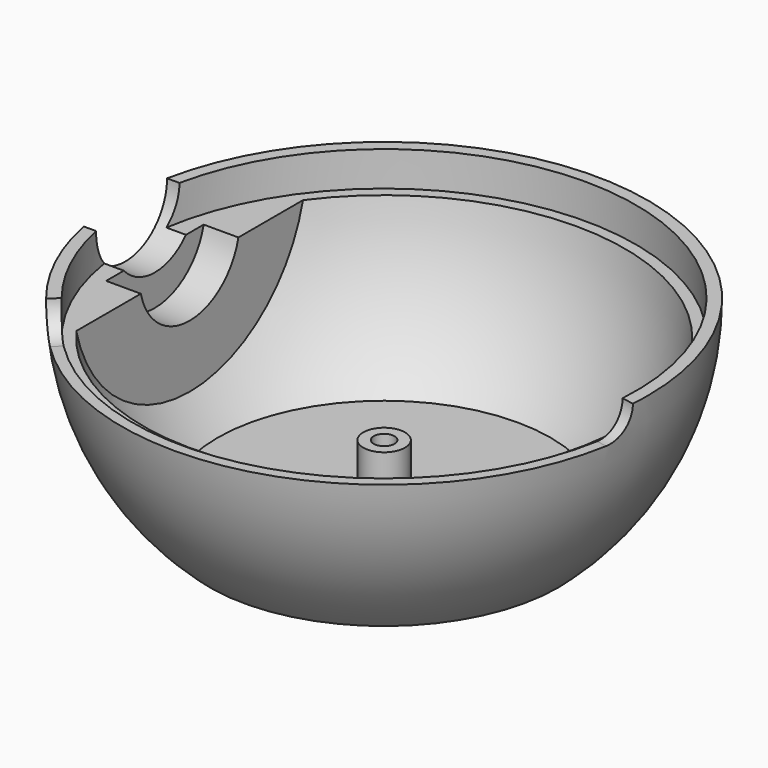
from build123d import *

# Parameters (mm, degrees)
CYLINDER052_R               = 1.5
CYLINDER052_DEPTH           = 15
CYLINDER050_R               = 36.25
CYLINDER050_DEPTH           = 10
BOX043_W                    = 73
BOX043_H                    = 67
BOX043_DEPTH                = 32
CYLINDER023_R               = 9
CYLINDER023_DEPTH           = 10
CYLINDER023_PITCH_ANGLE     = 90
BOX026_W                    = 10
BOX026_H                    = 18
BOX026_DEPTH                = 6
CYLINDER022_R               = 9
CYLINDER022_DEPTH           = 10
CYLINDER022_PITCH_ANGLE     = 90
CYLINDER021_R               = 7.5
CYLINDER021_DEPTH           = 20
CYLINDER021_PITCH_ANGLE     = 90
BOX025_W                    = 10
BOX025_H                    = 47
BOX025_DEPTH                = 24
BOX_W                       = 98
BOX_H                       = 98
BOX_DEPTH                   = 98
CYLINDER017_R               = 4
CYLINDER017_DEPTH           = 52
CYLINDER017_PITCH_ANGLE     = -90
CYLINDER017_PLACEMENT_ANGLE = 170
BOX020_W                    = 120
BOX020_H                    = 64
BOX020_DEPTH                = 15
BOX020_PLACEMENT_ANGLE      = 45
BOX019_W                    = 120
BOX019_H                    = 61
BOX019_DEPTH                = 15
BOX019_PLACEMENT_ANGLE      = -10
CYLINDER015_R               = 52
CYLINDER015_DEPTH           = 8
CYLINDER016_R               = 4
CYLINDER016_DEPTH           = 52
CYLINDER016_PITCH_ANGLE     = -90
CYLINDER016_PLACEMENT_ANGLE = 45
BOX036_W                    = 73
BOX036_H                    = 67
BOX036_DEPTH                = 3
CYLINDER051_R               = 3
CYLINDER051_DEPTH           = 10


with BuildPart() as cilindro042:
    # Cylinder052 → Cylinder052 (new body)
    with BuildSketch(Plane.XY.offset(-31)):
        Circle(CYLINDER052_R)
    extrude(amount=CYLINDER052_DEPTH)


with BuildPart() as cilindro040:
    # Cylinder050 → Cylinder050 (new body)
    with BuildSketch(Plane.XY.offset(-5)):
        Circle(CYLINDER050_R)
    extrude(amount=CYLINDER050_DEPTH)


with BuildPart() as cubo035:
    # Box043 → Box043 (new body)
    with BuildSketch(Plane(origin=(38, -33, -28.5), x_dir=(-1, 0, 0), z_dir=(0, 0, -1))):
        with Locations((36.5, 33.5)):
            Rectangle(BOX043_W, BOX043_H)
    extrude(amount=BOX043_DEPTH)


with BuildPart() as cilindro019:
    # Cylinder023 → Cylinder023 (new body)
    with BuildSketch(Plane.XY):
        Circle(CYLINDER023_R)
    extrude(amount=CYLINDER023_DEPTH)


with BuildPart() as cilindro019_1:
    # Cylinder023 pitch: moved
    add(cilindro019.part.rotate(Axis((0, 0, 0), (0, 1, 0)), CYLINDER023_PITCH_ANGLE))


with BuildPart() as cilindro019_2:
    # Cylinder023 placement: moved
    add(cilindro019_1.part.moved(Location((-33, 0, 3))))


with BuildPart() as cubo020:
    # Box026 → Box026 (new body)
    with BuildSketch(Plane(origin=(-33, -9, -3), x_dir=(1, 0, 0), z_dir=(0, 0, 1))):
        with Locations((5, 9)):
            Rectangle(BOX026_W, BOX026_H)
    extrude(amount=BOX026_DEPTH)


with BuildPart() as obj1:
    # Cylinder022 → Cylinder022 (new body)
    with BuildSketch(Plane.XY):
        Circle(CYLINDER022_R)
    extrude(amount=CYLINDER022_DEPTH)


with BuildPart() as obj1_1:
    # Cylinder022 pitch: moved
    add(obj1.part.rotate(Axis((0, 0, 0), (0, 1, 0)), CYLINDER022_PITCH_ANGLE))


with BuildPart() as obj1_2:
    # Cylinder022 placement: moved
    add(obj1_1.part.moved(Location((-33, 0, -3))))

    # Fusion016: union Cilindro019, Cubo020
    add(cilindro019_2.part)
    add(cubo020.part)


with BuildPart() as obj2:
    # Cylinder021 → Cylinder021 (new body)
    with BuildSketch(Plane.XY):
        Circle(CYLINDER021_R)
    extrude(amount=CYLINDER021_DEPTH)


with BuildPart() as obj2_1:
    # Cylinder021 pitch: moved
    add(obj2.part.rotate(Axis((0, 0, 0), (0, 1, 0)), CYLINDER021_PITCH_ANGLE))


with BuildPart() as obj2_2:
    # Cylinder021 placement: moved
    add(obj2_1.part.moved(Location((-46, 0, 0))))


with BuildPart() as obj3:
    # Sphere005 → Sphere005 (revolve)
    with BuildSketch(Plane.XZ):
        with BuildLine():
            ThreePointArc((0, -35), (35, 0), (0, 35))
            Line((0, 35), (0, -35))
        make_face()
    revolve(axis=Axis((0, 0, 0), (0, 0, 1)))


with BuildPart() as common001:
    # Box025 → Box025 (new body)
    with BuildSketch(Plane(origin=(-38, -22, -24), x_dir=(1, 0, 0), z_dir=(0, 0, 1))):
        with Locations((5, 23.5)):
            Rectangle(BOX025_W, BOX025_H)
    extrude(amount=BOX025_DEPTH)

    # Common001: intersect obj3
    add(obj3.part, mode=Mode.INTERSECT)


with BuildPart() as obj4:
    # Box → Box (new body)
    with BuildSketch(Plane(origin=(-52, -49, 0), x_dir=(1, 0, 0), z_dir=(0, 0, 1))):
        with Locations((49, 49)):
            Rectangle(BOX_W, BOX_H)
    extrude(amount=BOX_DEPTH)


with BuildPart() as cilindro015:
    # Cylinder017 → Cylinder017 (new body)
    with BuildSketch(Plane.XY):
        Circle(CYLINDER017_R)
    extrude(amount=CYLINDER017_DEPTH)


with BuildPart() as cilindro015_1:
    # Cylinder017 pitch: moved
    add(cilindro015.part.rotate(Axis((0, 0, 0), (0, 1, 0)), CYLINDER017_PITCH_ANGLE))


with BuildPart() as cilindro015_2:
    # Cylinder017 placement: moved
    add(cilindro015_1.part.rotate(Axis((0, 0, 0), (0, 0, 1)), CYLINDER017_PLACEMENT_ANGLE))


with BuildPart() as cubo016:
    # Box020 → Box020 (new body)
    with BuildSketch(Plane.XY):
        with Locations((60, 32)):
            Rectangle(BOX020_W, BOX020_H)
    extrude(amount=BOX020_DEPTH)


with BuildPart() as cubo016_1:
    # Box020 placement: moved
    add(cubo016.part.moved(Location((-42.426407, -42.426407, -9))).rotate(Axis((-42.426407, -42.426407, -9), (0, 0, 1)), BOX020_PLACEMENT_ANGLE))


with BuildPart() as cubo015:
    # Box019 → Box019 (new body)
    with BuildSketch(Plane.XY):
        with Locations((60, 30.5)):
            Rectangle(BOX019_W, BOX019_H)
    extrude(amount=BOX019_DEPTH)


with BuildPart() as cubo015_1:
    # Box019 placement: moved
    add(cubo015.part.moved(Location((-59.088465, 10.418891, -8))).rotate(Axis((-59.088465, 10.418891, -8), (0, 0, 1)), BOX019_PLACEMENT_ANGLE))


with BuildPart() as cut029:
    # Cylinder015 → Cylinder015 (new body)
    with BuildSketch(Plane.XY.offset(-4)):
        Circle(CYLINDER015_R)
    extrude(amount=CYLINDER015_DEPTH)

    # Cut028: cut Cubo015
    add(cubo015_1.part, mode=Mode.SUBTRACT)

    # Cut029: cut Cubo016
    add(cubo016_1.part, mode=Mode.SUBTRACT)


with BuildPart() as ranura003:
    # Cylinder016 → Cylinder016 (new body)
    with BuildSketch(Plane.XY):
        Circle(CYLINDER016_R)
    extrude(amount=CYLINDER016_DEPTH)


with BuildPart() as ranura003_1:
    # Cylinder016 pitch: moved
    add(ranura003.part.rotate(Axis((0, 0, 0), (0, 1, 0)), CYLINDER016_PITCH_ANGLE))


with BuildPart() as ranura003_2:
    # Cylinder016 placement: moved
    add(ranura003_1.part.rotate(Axis((0, 0, 0), (0, 0, 1)), CYLINDER016_PLACEMENT_ANGLE))

    # Fusion011: union Cilindro015, Cut029
    add(cilindro015_2.part)
    add(cut029.part)


with BuildPart() as obj5:
    # Sphere001 → Sphere001 (revolve)
    with BuildSketch(Plane.XZ):
        with BuildLine():
            ThreePointArc((0, -35), (35, 0), (0, 35))
            Line((0, 35), (0, -35))
        make_face()
    revolve(axis=Axis((0, 0, 0), (0, 0, 1)))


with BuildPart() as obj6:
    # Sphere → Sphere (revolve)
    with BuildSketch(Plane.XZ):
        with BuildLine():
            ThreePointArc((0, -38), (38, 0), (0, 38))
            Line((0, 38), (0, -38))
        make_face()
    revolve(axis=Axis((0, 0, 0), (0, 0, 1)))

    # Cut: cut obj5
    add(obj5.part, mode=Mode.SUBTRACT)

    # Cut030: cut Ranura003
    add(ranura003_2.part, mode=Mode.SUBTRACT)

    # Cut035: cut obj4
    add(obj4.part, mode=Mode.SUBTRACT)

    # Fusion014: union Common001
    add(common001.part)

    # Cut038: cut obj2
    add(obj2_2.part, mode=Mode.SUBTRACT)

    # Cut040: cut obj1
    add(obj1_2.part, mode=Mode.SUBTRACT)

    # Cut058: cut Cubo035
    add(cubo035.part, mode=Mode.SUBTRACT)


with BuildPart() as cubo029:
    # Box036 → Box036 (new body)
    with BuildSketch(Plane(origin=(38, -33, -25.5), x_dir=(-1, 0, 0), z_dir=(0, 0, -1))):
        with Locations((36.5, 33.5)):
            Rectangle(BOX036_W, BOX036_H)
    extrude(amount=BOX036_DEPTH)


with BuildPart() as obj7:
    # Sphere010 → Sphere010 (revolve)
    with BuildSketch(Plane.XZ):
        with BuildLine():
            ThreePointArc((0, -35), (35, 0), (0, 35))
            Line((0, 35), (0, -35))
        make_face()
    revolve(axis=Axis((0, 0, 0), (0, 0, 1)))

    # Common005: intersect Cubo029
    add(cubo029.part, mode=Mode.INTERSECT)

    # Fusion027: union obj6
    add(obj6.part)

    # Cut069: cut Cilindro040
    add(cilindro040.part, mode=Mode.SUBTRACT)


with BuildPart() as obj8:
    # Cylinder051 → Cylinder051 (new body)
    with BuildSketch(Plane.XY.offset(-28)):
        Circle(CYLINDER051_R)
    extrude(amount=CYLINDER051_DEPTH)

    # Fusion036: union obj7
    add(obj7.part)

    # Cut070: cut Cilindro042
    add(cilindro042.part, mode=Mode.SUBTRACT)


solid = obj8.part
